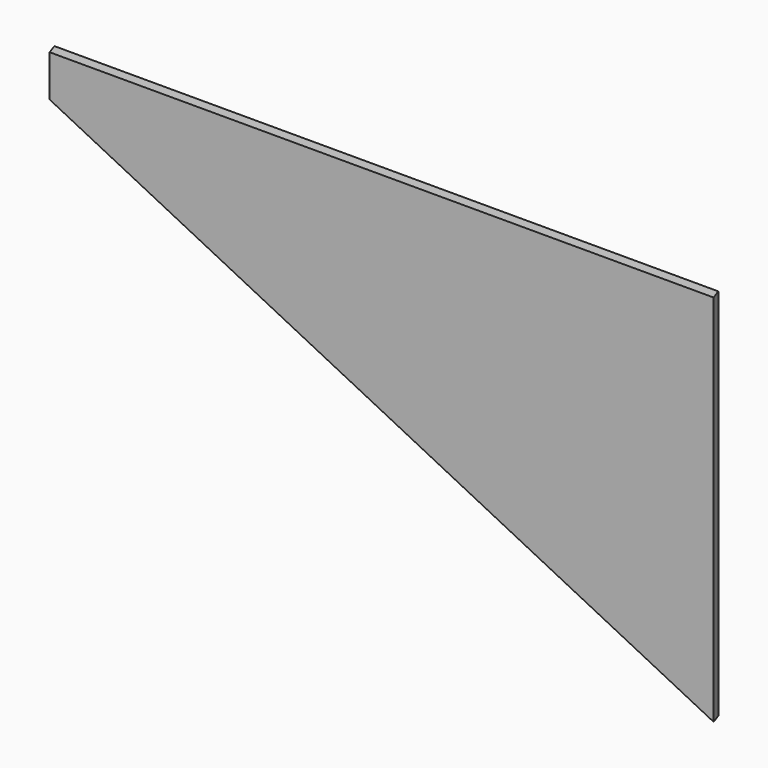
from build123d import *

# Parameters (mm, degrees)
F1_DEPTH      = 12.7
F6_DEPTH      = 511.1661396565
F6_DEPTH_BACK = 511.1661396565
F7_DEPTH      = 457.201


with BuildPart() as f1:
    # F0 (on Front) → F1 (new body)
    with BuildSketch(Plane.XZ):
        Polygon((0, -457.2), (0, 0), (-914.4, 0), align=None)
    extrude(amount=F1_DEPTH)

    # F5 (on face) → F6 (cut, two sides)
    with BuildSketch(Plane(origin=(-274.32, 0, 137.16), x_dir=(0, -1, 0), z_dir=(-0.894427191, 0, 0.4472135955))) as f6_sk:
        Polygon((12.7, -406.8387485734), (0, -408.9321117252), (12.7, -408.9321117252), align=None)
    extrude(amount=-F6_DEPTH, mode=Mode.SUBTRACT)
    extrude(f6_sk.sketch, amount=F6_DEPTH_BACK, mode=Mode.SUBTRACT)

    # F2 (on face) → F7 (cut, through all)
    with BuildSketch(Plane.XY):
        Polygon((-914.4, -12.7), (-808.223047, -12.7), (-812.7131750519, 0), (-914.4, 0), align=None)
        Polygon((-4.4901280519, 0), (0, -12.7), (0, 0), align=None)
    extrude(amount=-F7_DEPTH, mode=Mode.SUBTRACT)


solid = f1.part
